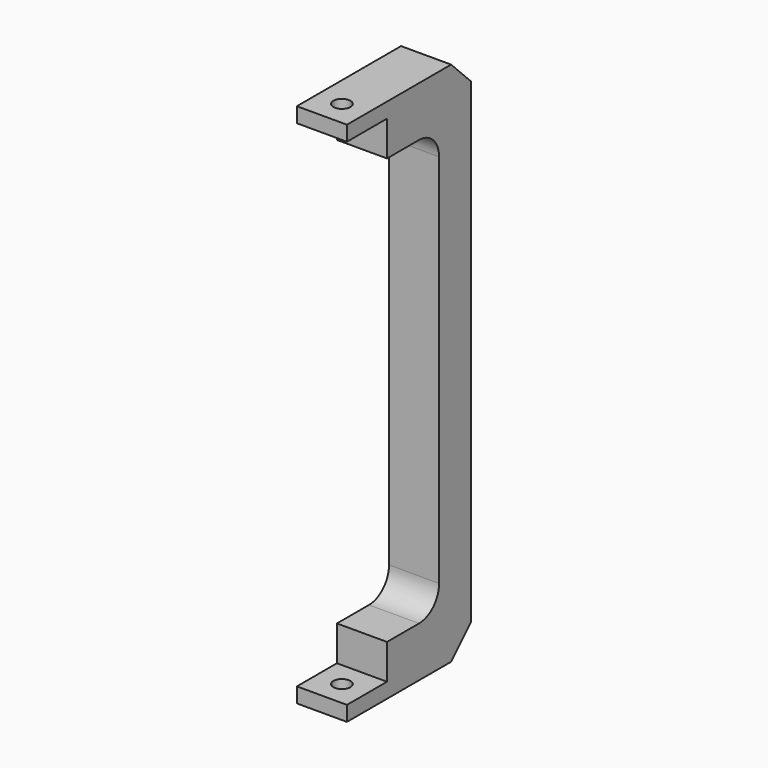
from build123d import *

# Parameters (mm, degrees)
F0_W     = 31
F0_H     = 105
F1_DEPTH = 10
F2_W     = 20
F2_H     = 99
F3_DEPTH = 10.001
F4_W     = 13
F4_H     = 85
F5_DEPTH = 10.001
F6_SIZE  = 5
F7_R     = 1.7
F8_DEPTH = 105.001
F9_R     = 5


with BuildPart() as f1:
    # F0 (on Right) → F1 (new body)
    with BuildSketch(Plane.YZ):
        with Locations((0.5, 2.5)):
            Rectangle(F0_W, F0_H)
    extrude(amount=F1_DEPTH)

    # F2 (on face) → F3 (cut, through all)
    with BuildSketch(Plane.YZ.offset(10)):
        with Locations((-15, 2.5)):
            Rectangle(F2_W, F2_H)
    extrude(amount=-F3_DEPTH, mode=Mode.SUBTRACT)

    # F4 (on face) → F5 (cut, through all)
    with BuildSketch(Plane.YZ.offset(10)):
        with Locations((1.5, 2.5)):
            Rectangle(F4_W, F4_H)
    extrude(amount=-F5_DEPTH, mode=Mode.SUBTRACT)

    # F6
    f6_edges = [f1.edges().sort_by_distance(p)[0] for p in [
        (5, 16, 55),
        (5, 16, -50),
    ]]
    chamfer(f6_edges, length=F6_SIZE)

    # F7 (on face) → F8 (cut, through all)
    with BuildSketch(Plane.XY.offset(55)):
        with Locations((5, -10)):
            Circle(F7_R)
    extrude(amount=-F8_DEPTH, mode=Mode.SUBTRACT)

    # F9
    f9_edges = [f1.edges().sort_by_distance(p)[0] for p in [
        (5, 8, 45),
        (5, 8, -40),
    ]]
    fillet(f9_edges, radius=F9_R)


solid = f1.part
